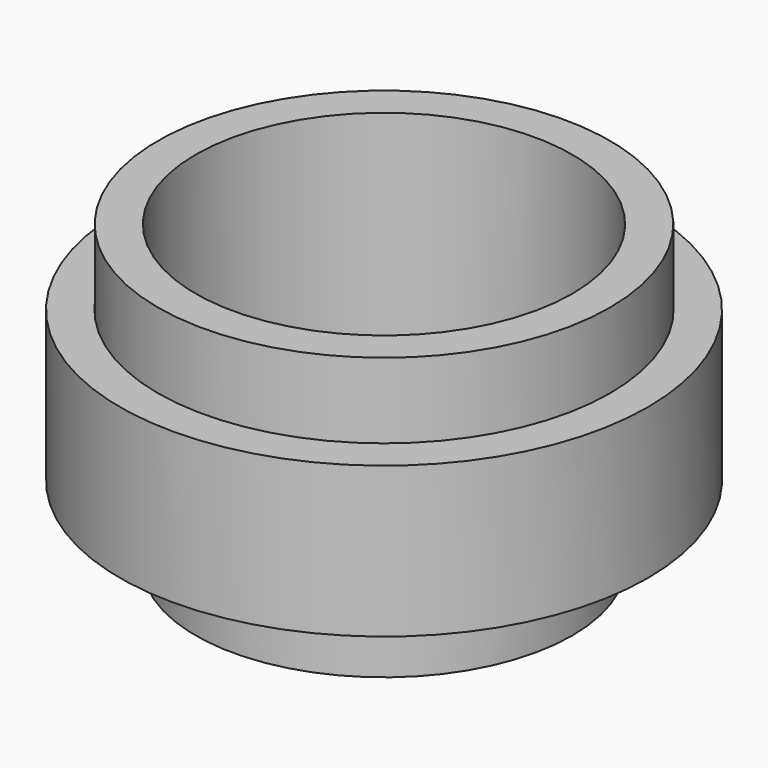
from build123d import *

# Parameters (mm, degrees)
F0_R     = 8.771746
F0_R_2   = 7.516924
F1_DEPTH = 5
F0_R_3   = 7.507939
F0_R_4   = 6.258811
F2_DEPTH = 7.5
F3_DEPTH = 2.5


with BuildPart() as f1:
    # F0 (on Top) → F1 (new body)
    with BuildSketch(Plane.XY):
        Circle(F0_R)
        Circle(F0_R_2, mode=Mode.SUBTRACT)
    extrude(amount=F1_DEPTH)


with BuildPart() as f2:
    # F0 (on Top) → F2 (new body)
    with BuildSketch(Plane.XY):
        Circle(F0_R_3)
        Circle(F0_R_4, mode=Mode.SUBTRACT)
    extrude(amount=F2_DEPTH)


with BuildPart() as f3:
    # F0 (on Top) → F3 (new body)
    with BuildSketch(Plane.XY):
        Circle(F0_R_4)
    extrude(amount=-F3_DEPTH)


solid = Compound([f1.part, f2.part, f3.part])
